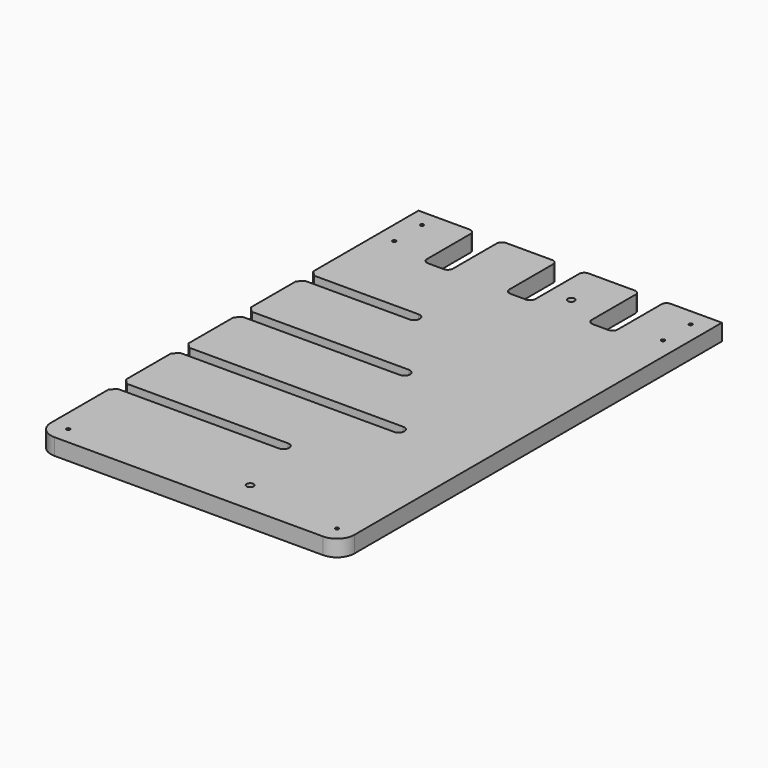
from build123d import *

# Parameters (mm, degrees)
SKETCH011_W           = 550
SKETCH011_H           = 350
PAD012_DEPTH          = 19
SKETCH012_R           = 4
POCKET007_DEPTH       = 11
FILLET_R              = 20
SKETCH013_R           = 2
POCKET008_DEPTH       = 19.001
SKETCH014_W           = 75
SKETCH014_H           = 30
POCKET009_DEPTH       = 19.001
FILLET004_R           = 6
SKETCH028_R           = 2
POCKET018_DEPTH       = 19.001
CHAMFER008_SIZE       = 6
CLONE_PLACEMENT_ANGLE = 90


with BuildPart() as part:
    # Sketch011 → Pad012 (new body)
    with BuildSketch(Plane.XY):
        with Locations((0, 41.2)):
            Rectangle(SKETCH011_W, SKETCH011_H)
    extrude(amount=-PAD012_DEPTH)

    # Sketch012 (on Face5 of Pad012) → Pocket007 (cut)
    with BuildSketch(Plane.XY):
        with Locations((-238, 0)):
            Circle(SKETCH012_R)
        with Locations((225, 0)):
            Circle(SKETCH012_R)
        with BuildLine():
            ThreePointArc((-165.823184, 24.404903), (-159.323184, 17.904903), (-152.823184, 24.404903))
            Line((-152.823184, 24.404903), (-152.823184, 216.2))
            ThreePointArc((-152.823184, 216.2), (-159.323184, 222.7), (-165.823184, 216.2))
            Line((-165.823184, 24.404903), (-165.823184, 216.2))
        make_face()
        with BuildLine():
            ThreePointArc((-75.823184, -36.417713), (-69.323184, -42.917713), (-62.823184, -36.417713))
            Line((-62.823184, -36.417713), (-62.823184, 216.2))
            ThreePointArc((-62.823184, 216.2), (-69.323184, 222.7), (-75.823184, 216.2))
            Line((-75.823184, -36.417713), (-75.823184, 216.2))
        make_face()
        with BuildLine():
            ThreePointArc((14.176816, 28.977719), (20.676816, 22.477719), (27.176816, 28.977719))
            Line((27.176816, 28.977719), (27.176816, 216.2))
            ThreePointArc((27.176816, 216.2), (20.676816, 222.7), (14.176816, 216.2))
            Line((14.176816, 28.977719), (14.176816, 216.2))
        make_face()
        with BuildLine():
            ThreePointArc((104.176816, 89.800335), (110.676816, 83.300335), (117.176816, 89.800335))
            Line((117.176816, 89.800335), (117.176816, 216.2))
            ThreePointArc((117.176816, 216.2), (110.676816, 222.7), (104.176816, 216.2))
            Line((104.176816, 89.800335), (104.176816, 216.2))
        make_face()
    extrude(amount=-POCKET007_DEPTH, mode=Mode.SUBTRACT)

    # Fillet
    fillet_edges = [part.edges().sort_by_distance(p)[0] for p in [
        (-275, -133.8, -9.5),
        (-275, 216.2, -9.5),
    ]]
    fillet(fillet_edges, radius=FILLET_R)

    # Sketch013 (on Face2 of Fillet) → Pocket008 (cut, through all)
    with BuildSketch(Plane.XY):
        with Locations((-255, 196.2)):
            Circle(SKETCH013_R)
        with Locations((-255, -113.8)):
            Circle(SKETCH013_R)
        with Locations((215, -113.8)):
            Circle(SKETCH013_R)
        with Locations((215, 196.2)):
            Circle(SKETCH013_R)
    extrude(amount=-POCKET008_DEPTH, mode=Mode.SUBTRACT)

    # Sketch014 (on Face2 of Pocket008) → Pocket009 (cut, through all)
    with BuildSketch(Plane.XY):
        with Locations((237.5, 136.2)):
            Rectangle(SKETCH014_W, SKETCH014_H)
        with Locations((237.5, -53.8)):
            Rectangle(SKETCH014_W, SKETCH014_H)
        with Locations((237.5, 41.2)):
            Rectangle(SKETCH014_W, SKETCH014_H)
    extrude(amount=-POCKET009_DEPTH, mode=Mode.SUBTRACT)

    # Fillet004
    fillet004_edges = [part.edges().sort_by_distance(p)[0] for p in [
        (275, 151.2, -9.5),
        (200, 151.2, -9.5),
        (275, 121.2, -9.5),
        (275, 56.2, -9.5),
        (200, 56.2, -9.5),
        (275, 26.2, -9.5),
        (200, -38.8, -9.5),
        (275, -38.8, -9.5),
        (275, -68.8, -9.5),
        (200, -68.8, -9.5),
        (200, 26.2, -9.5),
        (200, 121.2, -9.5),
    ]]
    fillet(fillet004_edges, radius=FILLET004_R)

    # Sketch028 (on Face50 of Fillet004) → Pocket018 (cut, through all)
    with BuildSketch(Plane(origin=(0, 0, -19), x_dir=(1, 0, 0), z_dir=(0, 0, -1))):
        with Locations((255, -196.2)):
            Circle(SKETCH028_R)
        with Locations((255, 113.8)):
            Circle(SKETCH028_R)
    extrude(amount=-POCKET018_DEPTH, mode=Mode.SUBTRACT)

    # Chamfer008
    chamfer008_edges = [part.edges().sort_by_distance(p)[0] for p in [
        (-165.823184, 216.2, -5.5),
        (-152.823184, 216.2, -5.5),
        (-75.823184, 216.2, -5.5),
        (-62.823184, 216.2, -5.5),
        (14.176816, 216.2, -5.5),
        (27.176816, 216.2, -5.5),
        (104.176816, 216.2, -5.5),
        (117.176816, 216.2, -5.5),
    ]]
    chamfer(chamfer008_edges, length=CHAMFER008_SIZE)


with BuildPart() as part_1:
    # Body008 placement: moved
    add(part.part.moved(Location((0, 0, -9))))


with BuildPart() as part_2:
    # Clone placement: moved
    add(part_1.part.moved(Location((217.2, 276, 9))).rotate(Axis((217.2, 276, 9), (0, 0, 1)), CLONE_PLACEMENT_ANGLE))


solid = part_2.part
